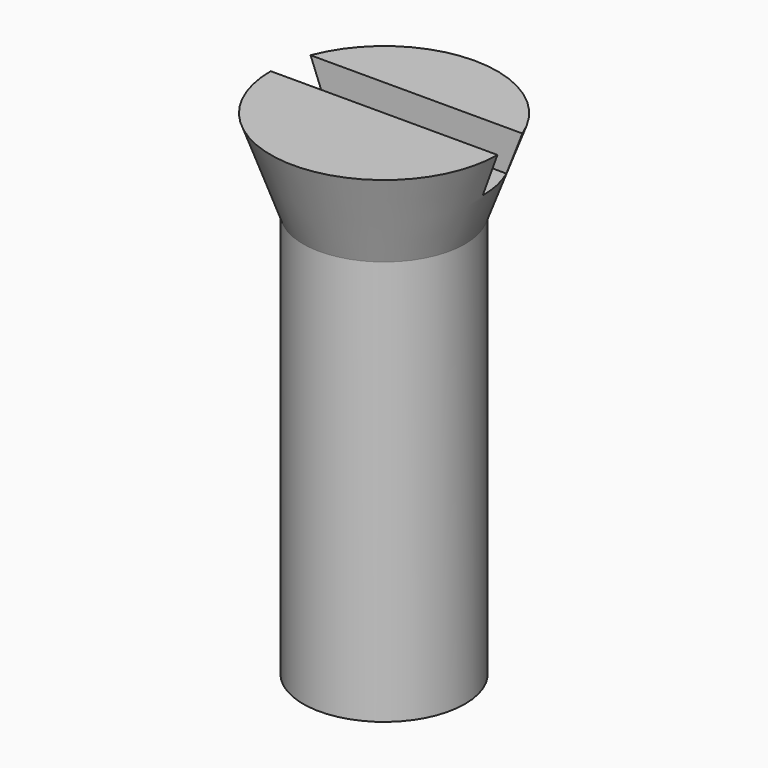
from build123d import *

# Parameters (mm, degrees)
BOX_W          = 10
BOX_H          = 1
BOX_DEPTH      = 2
CYLINDER_R     = 2
CYLINDER_DEPTH = 10


with BuildPart() as cube:
    # Box → Box (new body)
    with BuildSketch(Plane(origin=(-5, 0, 11.2), x_dir=(1, 0, 0), z_dir=(0, 0, 1))):
        with Locations((5, 0.5)):
            Rectangle(BOX_W, BOX_H)
    extrude(amount=BOX_DEPTH)


with BuildPart() as cut:
    # Cone → Cone (revolve)
    with BuildSketch(Plane(origin=(0, 0, 10), x_dir=(1, 0, 0), z_dir=(0, -1, 0))):
        Polygon((0, 0), (2, 0), (2.8, 2.2), (0, 2.2), align=None)
    revolve(axis=Axis((0, 0, 10), (0, 0, 1)))

    # Cut: cut Cube
    add(cube.part, mode=Mode.SUBTRACT)


with BuildPart() as fusion:
    # Cylinder → Cylinder (new body)
    with BuildSketch(Plane.XY):
        Circle(CYLINDER_R)
    extrude(amount=CYLINDER_DEPTH)

    # Fusion: union Cut
    add(cut.part)


solid = fusion.part
